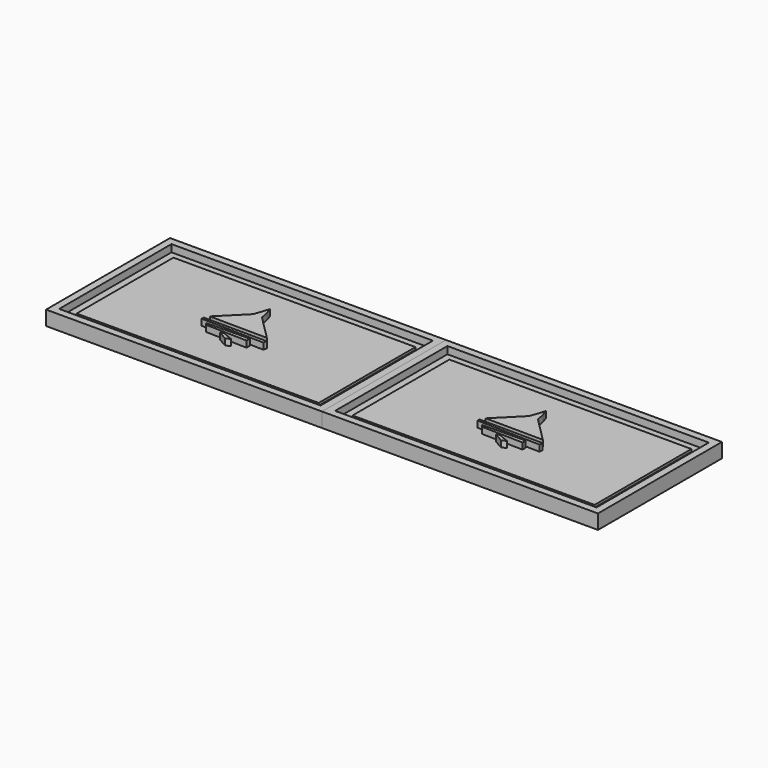
from build123d import *

# Parameters (mm, degrees)
F0_W     = 50
F0_H     = 25
F1_DEPTH = 2
F3_DEPTH = 1.3
F0_W_2   = 54
F0_H_2   = 29
F4_DEPTH = 1.5
F0_W_3   = 57
F0_H_3   = 32
F5_DEPTH = 3


with BuildPart() as f1:
    # F0 (on Top) → F1 (new body)
    with BuildSketch(Plane.XY):
        Rectangle(F0_W, F0_H)
    extrude(amount=F1_DEPTH)

    # F2 (on face) → F3 (join)
    with BuildSketch(Plane.XY.offset(2)):
        Polygon((1.60124, -5.836776), (-0.671487, -4.907025), (-1.188015, -5.216943), (0.671489, -6.25), align=None)
        Polygon((3.873967, -3.873967), (-5.010331, -3.977272), (-4.700413, -4.493801), (3.873967, -4.700414), align=None)
        Polygon((6.559917, -2.840908), (-6.559917, -2.737604), (-6.559917, -3.254132), (6.456612, -3.56405), align=None)
        Polygon((0.361571, 5.010332), (-0.051651, 6.25), (-0.464875, 4.907026), (-1.084711, 3.150826), (-6.043388, -1.807851), (5.836777, -1.911157), (0.774793, 3.150826), align=None)
    extrude(amount=F3_DEPTH)

    # F0 (on Top) → F4 (join)
    with BuildSketch(Plane.XY):
        Rectangle(F0_W_2, F0_H_2)
        Rectangle(F0_W, F0_H, mode=Mode.SUBTRACT)
    extrude(amount=F4_DEPTH)

    # F0 (on Top) → F5 (join)
    with BuildSketch(Plane.XY):
        Rectangle(F0_W_3, F0_H_3)
        Rectangle(F0_W_2, F0_H_2, mode=Mode.SUBTRACT)
    extrude(amount=F5_DEPTH)


with BuildPart() as f6_1:
    # F6: copy of F1
    add(f1.part.moved(Location((57, 0, 0))))


solid = Compound([f1.part, f6_1.part])
